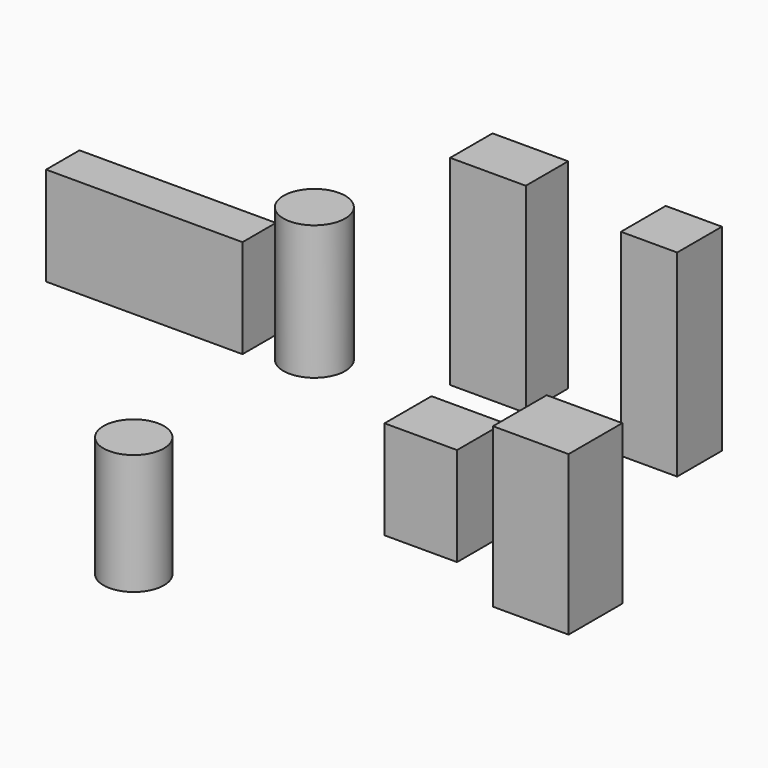
from build123d import *

# Parameters (mm, degrees)
F0_W      = 919.162988
F0_H      = 539.31427
F1_DEPTH  = 25.4
F2_W      = 700.929463
F2_H      = 491.035104
F3_DEPTH  = 1854.2
F5_W      = 672.109008
F5_H      = 544.313073
F6_DEPTH  = 914.4
F7_R      = 178.740434
F8_DEPTH  = 939.8
F9_W      = 521.076918
F9_H      = 518.687129
F10_DEPTH = 1828.8
F11_W     = 700.797558
F11_H     = 622.448236
F12_DEPTH = 1473.2
F13_R     = 135.460143
F14_DEPTH = 1016
F15_R     = 280.459431
F16_DEPTH = 1117.6
F19_R     = 286.044111
F20_DEPTH = 1244.6
F21_W     = 1820.716203
F21_H     = 387.130737
F22_DEPTH = 914.4


with BuildPart() as f1:
    # F0 (on Top) → F1 (new body)
    with BuildSketch(Plane.XY):
        with Locations((2285.994172, -360.533297)):
            Rectangle(F0_W, F0_H)
    extrude(amount=F1_DEPTH)


with BuildPart() as f3:
    # F2 (on Top) → F3 (new body)
    with BuildSketch(Plane.XY):
        with Locations((941.166133, 1837.904632)):
            Rectangle(F2_W, F2_H)
    extrude(amount=F3_DEPTH)


with BuildPart() as f6:
    # F5 (on Top) → F6 (new body)
    with BuildSketch(Plane.XY):
        with Locations((2027.980149, -272.156537)):
            Rectangle(F5_W, F5_H)
    extrude(amount=F6_DEPTH)


with BuildPart() as f8:
    # F7 (on Top) → F8 (new body)
    with BuildSketch(Plane.XY):
        with Locations((-395.410061, 1610.258222)):
            Circle(F7_R)
    extrude(amount=F8_DEPTH)


with BuildPart() as f10:
    # F9 (on Top) → F10 (new body)
    with BuildSketch(Plane.XY):
        with Locations((2510.191083, 1757.200063)):
            Rectangle(F9_W, F9_H)
    extrude(amount=F10_DEPTH)


with BuildPart() as f12:
    # F11 (on Top) → F12 (new body)
    with BuildSketch(Plane.XY):
        with Locations((3354.201317, -616.512641)):
            Rectangle(F11_W, F11_H)
    extrude(amount=F12_DEPTH)


with BuildPart() as f14:
    # F13 (on Top) → F14 (new body)
    with BuildSketch(Plane.XY):
        with Locations((-951.282263, -655.183971)):
            Circle(F13_R)
    extrude(amount=F14_DEPTH)


with BuildPart() as f16:
    # F15 (on Top) → F16 (new body)
    with BuildSketch(Plane.XY):
        with Locations((654.409766, -2153.453588)):
            Circle(F15_R)
    extrude(amount=F16_DEPTH)


with BuildPart() as f20:
    # F19 (on Top) → F20 (new body)
    with BuildSketch(Plane.XY):
        with Locations((-425.633818, 1289.381742)):
            Circle(F19_R)
    extrude(amount=F20_DEPTH)


with BuildPart() as f22:
    # F21 (on Top) → F22 (new body)
    with BuildSketch(Plane.XY):
        with Locations((-1795.167535, 1224.277138)):
            Rectangle(F21_W, F21_H)
    extrude(amount=F22_DEPTH)


solid = Compound([f3.part, f6.part, f10.part, f12.part, f16.part, f20.part, f22.part])
